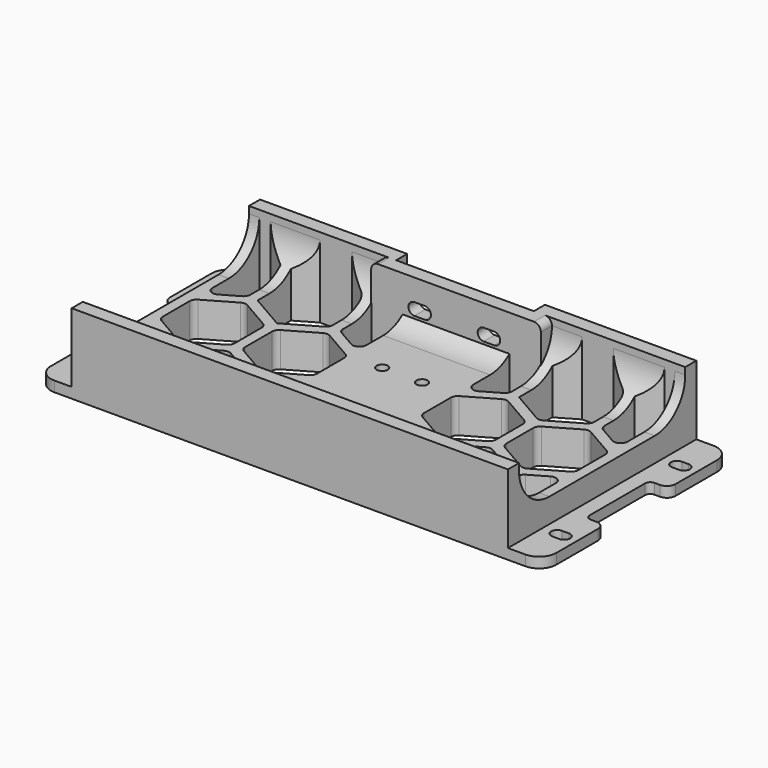
from build123d import *

# Parameters (mm, degrees)
PAD_DEPTH            = 3
SKETCH001_W          = 126
SKETCH001_H          = 68
PAD001_DEPTH         = 20
POCKET_DEPTH         = 130
SKETCH005_R          = 1.6
POCKET002_DEPTH      = 10
POCKET002_DEPTH_BACK = 20
SKETCH006_W          = 49
SKETCH006_H          = 4
PAD003_DEPTH         = 20
PAD003_DEPTH_BACK    = 2.98
SKETCH007_W          = 39.77652
SKETCH007_H          = 4
POCKET003_DEPTH      = 30
FILLET_R             = 2
POCKET004_DEPTH      = 5


with BuildPart() as part:
    # Sketch → Pad (new body)
    with BuildSketch(Plane.XY):
        with BuildLine():
            Line((5, 0), (141, 0))
            ThreePointArc((141, 0), (144.535534, 1.464466), (146, 5))
            Line((146, 20), (146, 5))
            ThreePointArc((146, 20), (145.267767, 21.767767), (143.5, 22.5))
            Line((141.9, 22.5), (143.5, 22.5))
            ThreePointArc((140.4, 24), (140.83934, 22.93934), (141.9, 22.5))
            Line((140.4, 44), (140.4, 24))
            ThreePointArc((141.9, 45.5), (140.83934, 45.06066), (140.4, 44))
            Line((143.5, 45.5), (141.9, 45.5))
            ThreePointArc((143.5, 45.5), (145.267767, 46.232233), (146, 48))
            Line((146, 63), (146, 48))
            ThreePointArc((146, 63), (144.535534, 66.535534), (141, 68))
            Line((141, 68), (5, 68))
            ThreePointArc((5, 68), (1.464466, 66.535534), (0, 63))
            Line((0, 63), (0, 48))
            ThreePointArc((0, 48), (0.732233, 46.232233), (2.5, 45.5))
            Line((4.1, 45.5), (2.5, 45.5))
            ThreePointArc((5.6, 44), (5.16066, 45.06066), (4.1, 45.5))
            Line((5.6, 24), (5.6, 44))
            ThreePointArc((4.1, 22.5), (5.16066, 22.93934), (5.6, 24))
            Line((2.5, 22.5), (4.1, 22.5))
            ThreePointArc((2.5, 22.5), (0.732233, 21.767767), (0, 20))
            Line((0, 20), (0, 5))
            ThreePointArc((0, 5), (1.464466, 1.464466), (5, 0))
        make_face()
        with BuildLine():
            ThreePointArc((3.75, 57.45), (2, 55.7), (3.75, 53.95))
            Line((3.75, 53.95), (5.75, 53.95))
            ThreePointArc((5.75, 53.95), (7.5, 55.7), (5.75, 57.45))
            Line((3.75, 57.45), (5.75, 57.45))
        make_face(mode=Mode.SUBTRACT)
        with BuildLine():
            ThreePointArc((140.25, 57.45), (138.5, 55.7), (140.25, 53.95))
            Line((140.25, 53.95), (142.25, 53.95))
            ThreePointArc((142.25, 53.95), (144, 55.7), (142.25, 57.45))
            Line((140.25, 57.45), (142.25, 57.45))
        make_face(mode=Mode.SUBTRACT)
        with BuildLine():
            ThreePointArc((3.75, 14.2), (2, 12.45), (3.75, 10.7))
            Line((3.75, 10.7), (5.75, 10.7))
            ThreePointArc((5.75, 10.7), (7.5, 12.45), (5.75, 14.2))
            Line((3.75, 14.2), (5.75, 14.2))
        make_face(mode=Mode.SUBTRACT)
        with BuildLine():
            ThreePointArc((140.25, 14.2), (138.5, 12.45), (140.25, 10.7))
            Line((140.25, 10.7), (142.25, 10.7))
            ThreePointArc((142.25, 10.7), (144, 12.45), (142.25, 14.2))
            Line((140.25, 14.2), (142.25, 14.2))
        make_face(mode=Mode.SUBTRACT)
    extrude(amount=PAD_DEPTH)

    # Sketch001 (on Face42 of Pad) → Pad001 (join)
    with BuildSketch(Plane.XY.offset(3)):
        with Locations((73, 34)):
            Rectangle(SKETCH001_W, SKETCH001_H)
    extrude(amount=PAD001_DEPTH)

    # Sketch002 (on Face43 of Pad001) → Pocket (cut)
    with BuildSketch(Plane(origin=(10, 0, 0), x_dir=(0, -1, 0), z_dir=(-1, 0, 0))):
        with BuildLine():
            Line((-64, 23), (-4, 23))
            Line((-4, 23), (-4, 21))
            ThreePointArc((-15, 10), (-7.221825, 13.221825), (-4, 21))
            Line((-15, 10), (-53, 10))
            ThreePointArc((-64, 21), (-60.778175, 13.221825), (-53, 10))
            Line((-64, 21), (-64, 23))
        make_face()
    extrude(amount=-POCKET_DEPTH, mode=Mode.SUBTRACT)

    # Sketch005 (on Face50 of Pocket) → Pocket002 (cut, two sides)
    with BuildSketch(Plane.XY.offset(10)) as pocket002_sk:
        with Locations((67.25, 40.55)):
            Circle(SKETCH005_R)
        with Locations((78.75, 40.55)):
            Circle(SKETCH005_R)
        Polygon((36.78461, 28), (47.176915, 22), (57.569219, 28), (57.569219, 40), (47.176915, 46), (36.78461, 40), align=None)
        Polygon((13, 28), (23.392305, 22), (33.78461, 28), (33.78461, 40), (23.392305, 46), (13, 40), align=None)
        Polygon((112.21539, 28), (122.607695, 22), (133, 28), (133, 40), (122.607695, 46), (112.21539, 40), align=None)
        Polygon((88.430781, 28), (98.823085, 22), (109.21539, 28), (109.21539, 40), (98.823085, 46), (88.430781, 40), align=None)
        Polygon((24.75, 7.324806), (30.37418, 4), (39.91043, 4), (45.53461, 7.324806), (45.53461, 19.324806), (35.142305, 25.324806), (24.75, 19.324806), align=None)
        Polygon((115.21539, 4), (121.107695, 7.401924), (121.107695, 19.401924), (110.71539, 25.401924), (100.323085, 19.401924), (100.323085, 7.401924), (106.21539, 4), align=None)
        Polygon((110.71539, 42.598076), (121.107695, 48.598076), (121.107695, 60.598076), (115.21539, 64), (106.21539, 64), (100.323085, 60.598076), (100.323085, 48.598076), align=None)
        Polygon((45.53461, 48.675194), (45.53461, 60.675194), (39.775877, 64), (30.508733, 64), (24.75, 60.675194), (24.75, 48.675194), (35.142305, 42.675194), align=None)
        Polygon((48.53461, 60.675194), (48.53461, 48.675194), (57.569219, 43.45906), (57.569219, 64), (54.293342, 64), align=None)
        Polygon((124.107695, 48.598076), (133, 43.464102), (133, 64), (130, 64), (124.107695, 60.598076), align=None)
        Polygon((48.53461, 19.324806), (57.569219, 24.54094), (57.569219, 4), (54.293342, 4), (48.53461, 7.324806), align=None)
        Polygon((13, 43.623379), (13, 64), (16.275877, 64), (21.75, 60.675194), (21.75, 48.675194), align=None)
        Polygon((13, 4), (13, 24.376621), (21.75, 19.324806), (21.75, 7.324806), (16.275877, 4), align=None)
        Polygon((88.430781, 64), (88.430781, 43.464102), (97.323085, 48.598076), (97.323085, 60.598076), (91.706658, 64), align=None)
        Polygon((88.430781, 24.535898), (88.430781, 4), (91.706658, 4), (97.323085, 7.401924), (97.323085, 19.401924), align=None)
        Polygon((124.107695, 19.401924), (124.107695, 7.401924), (129.724123, 4), (133, 4), (133, 24.535898), align=None)
    extrude(amount=-POCKET002_DEPTH, mode=Mode.SUBTRACT)
    extrude(pocket002_sk.sketch, amount=POCKET002_DEPTH_BACK, mode=Mode.SUBTRACT)

    # Sketch006 (on Face42 of Pad) → Pad003 (join, two sides)
    with BuildSketch(Plane.XY.offset(3)) as pad003_sk:
        with Locations((73, 62)):
            Rectangle(SKETCH006_W, SKETCH006_H)
    extrude(amount=PAD003_DEPTH)
    extrude(pad003_sk.sketch, amount=-PAD003_DEPTH_BACK)

    # Sketch007 (on Face169 of Pad003) → Pocket003 (cut)
    with BuildSketch(Plane.XY.offset(23)):
        with Locations((72.38826, 66)):
            Rectangle(SKETCH007_W, SKETCH007_H)
    extrude(amount=-POCKET003_DEPTH, mode=Mode.SUBTRACT)

    # Fillet
    fillet_edges = [part.edges().sort_by_distance(p)[0] for p in [
        (48.5, 62, 23),
        (97.5, 62, 23),
        (109.21539, 40, 5),
        (109.21539, 28, 5),
        (121.107695, 60.598076, 6.522902),
        (121.107695, 48.598076, 5),
        (133, 40, 5),
        (57.569219, 40, 5),
        (57.569219, 28, 5),
        (45.53461, 48.675194, 5),
        (97.323085, 48.598076, 5),
        (121.107695, 19.401924, 5),
        (121.107695, 7.401924, 6.522902),
        (97.323085, 19.401924, 5),
        (133, 28, 5),
        (45.53461, 19.324806, 5),
        (33.78461, 28, 5),
        (33.78461, 40, 5),
        (45.53461, 60.675194, 6.560095),
        (21.75, 48.675194, 5),
        (47.176915, 22, 5),
        (36.78461, 28, 5),
        (23.392305, 22, 5),
        (13, 28, 5),
        (23.392305, 46, 5),
        (13, 40, 5),
        (13, 43.623379, 5),
        (13, 24.376621, 5),
        (48.53461, 48.675194, 5),
        (122.607695, 22, 5),
        (98.823085, 22, 5),
        (57.569219, 43.45906, 5),
        (110.71539, 42.598076, 5),
        (133, 43.464102, 5),
        (57.569219, 24.54094, 5),
        (47.176915, 46, 5),
        (98.823085, 46, 5),
        (122.607695, 46, 5),
        (36.78461, 40, 5),
        (35.142305, 25.324806, 5),
        (24.75, 19.324806, 5),
        (21.75, 19.324806, 5),
        (110.71539, 25.401924, 5),
        (133, 24.535898, 5),
        (88.430781, 40, 5),
        (88.430781, 24.535898, 5),
        (48.53461, 19.324806, 5),
        (112.21539, 40, 5),
        (124.107695, 19.401924, 5),
        (124.107695, 48.598076, 5),
        (88.430781, 28, 5),
        (112.21539, 28, 5),
        (100.323085, 19.401924, 5),
        (88.430781, 43.464102, 5),
        (124.107695, 7.401924, 6.522902),
        (100.323085, 7.401924, 6.522902),
        (48.53461, 7.324806, 6.560095),
        (24.75, 7.324806, 6.560095),
        (21.75, 7.324806, 6.560095),
        (45.53461, 7.324806, 6.560095),
        (97.323085, 7.401924, 6.522902),
    ]]
    fillet(fillet_edges, radius=FILLET_R)

    # Sketch008 (on Face6 of Fillet) → Pocket004 (cut)
    with BuildSketch(Plane(origin=(0, 64, 0), x_dir=(-1, 0, 0), z_dir=(0, 1, 0))):
        with BuildLine():
            ThreePointArc((-84, 16.75), (-85.75, 15), (-84, 13.25))
            Line((-84, 13.25), (-81, 13.25))
            ThreePointArc((-81, 13.25), (-79.25, 15), (-81, 16.75))
            Line((-84, 16.75), (-81, 16.75))
        make_face()
        with BuildLine():
            ThreePointArc((-64, 16.75), (-65.75, 15), (-64, 13.25))
            Line((-64, 13.25), (-61, 13.25))
            ThreePointArc((-61, 13.25), (-59.25, 15), (-61, 16.75))
            Line((-64, 16.75), (-61, 16.75))
        make_face()
    extrude(amount=-POCKET004_DEPTH, mode=Mode.SUBTRACT)


solid = part.part
